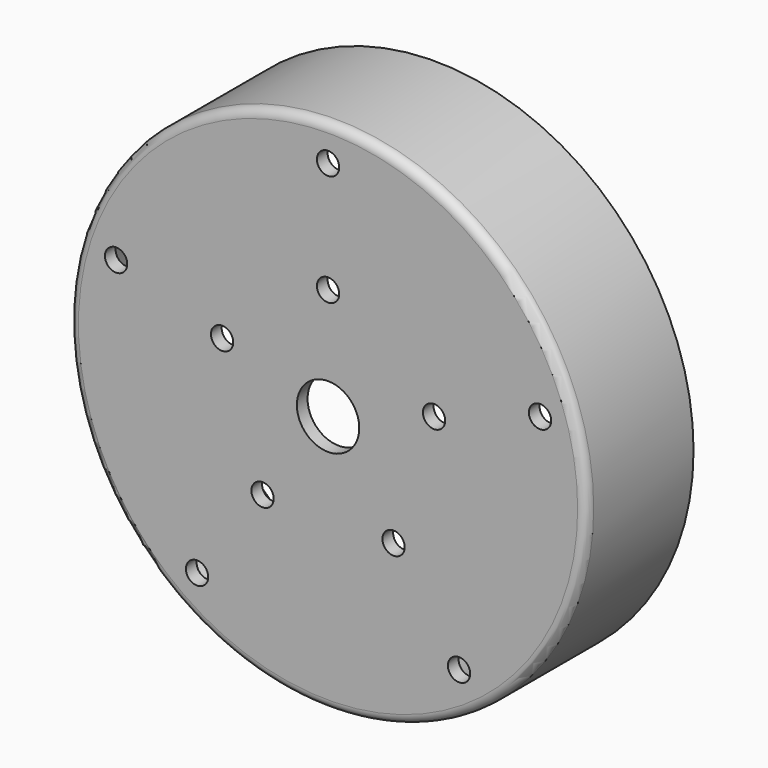
from build123d import *

# Parameters (mm, degrees)
F0_R     = 58
F1_DEPTH = 30
F2_T     = -3
F3_R     = 2
F5_D     = 14
F7_D     = 5


with BuildPart() as f1:
    # F0 (on Front) → F1 (new body)
    with BuildSketch(Plane.XZ):
        Circle(F0_R)
    extrude(amount=F1_DEPTH)

    # F2
    f2_openings = [f1.faces().sort_by_distance(p)[0] for p in [
        (0, 0, 0),
    ]]
    offset(amount=F2_T, openings=f2_openings)

    # F3
    f3_edges = [f1.edges().sort_by_distance(p)[0] for p in [
        (-58, -30, 0),
    ]]
    fillet(f3_edges, radius=F3_R)

    # F5 (through all)
    with Locations(Plane.XZ.offset(30)):
        with Locations((0, 0)):
            Hole(F5_D / 2)

    # F7 (through all)
    with Locations(Plane.XZ.offset(30)):
        with Locations((0, 25), (0, 50), (-23.776413, 7.725425), (-47.552826, 15.45085), (-29.389263, -40.45085), (-14.694631, -20.225425), (14.694631, -20.225425), (29.389263, -40.45085), (23.776413, 7.725425), (47.552826, 15.45085)):
            Hole(F7_D / 2)


solid = f1.part
